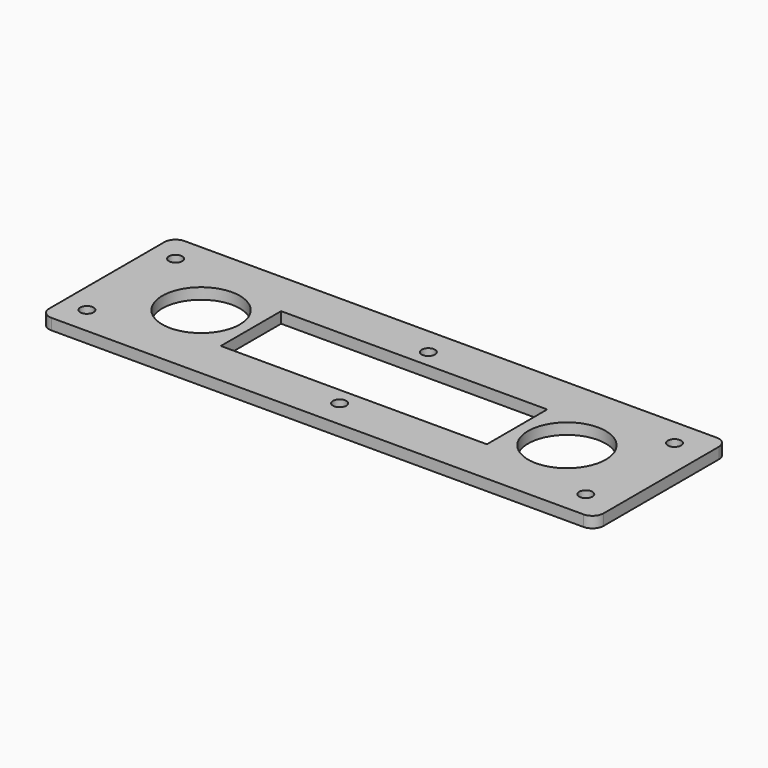
from build123d import *

# Parameters (mm, degrees)
F0_R     = 6
F0_R_2   = 35
F1_DEPTH = 10
F2_W     = 240
F2_H     = 68
F3_DEPTH = 25


with BuildPart() as f1:
    # F0 (on Top) → F1 (new body)
    with BuildSketch(Plane.XY):
        with BuildLine():
            ThreePointArc((0, 10), (2.928932, 2.928932), (10, 0))
            Line((10, 0), (65, 0))
            Line((65, 0), (105, 0))
            Line((105, 0), (230, 0))
            Line((230, 0), (270, 0))
            Line((270, 0), (395, 0))
            Line((395, 0), (435, 0))
            Line((435, 0), (490, 0))
            ThreePointArc((490, 0), (497.071068, 2.928932), (500, 10))
            Line((500, 10), (500, 140))
            ThreePointArc((500, 140), (497.071068, 147.071068), (490, 150))
            Line((490, 150), (435, 150))
            Line((435, 150), (395, 150))
            Line((395, 150), (270, 150))
            Line((270, 150), (230, 150))
            Line((230, 150), (105, 150))
            Line((105, 150), (65, 150))
            Line((65, 150), (10, 150))
            ThreePointArc((10, 150), (2.928932, 147.071068), (0, 140))
            Line((0, 140), (0, 10))
        make_face()
        with Locations((22, 25)):
            Circle(F0_R, mode=Mode.SUBTRACT)
        with Locations((250, 25)):
            Circle(F0_R, mode=Mode.SUBTRACT)
        with Locations((472, 25)):
            Circle(F0_R, mode=Mode.SUBTRACT)
        with Locations((85, 75)):
            Circle(F0_R_2, mode=Mode.SUBTRACT)
        with Locations((22, 125)):
            Circle(F0_R, mode=Mode.SUBTRACT)
        with Locations((415, 75)):
            Circle(F0_R_2, mode=Mode.SUBTRACT)
        with Locations((250, 125)):
            Circle(F0_R, mode=Mode.SUBTRACT)
        with Locations((472, 125)):
            Circle(F0_R, mode=Mode.SUBTRACT)
    extrude(amount=F1_DEPTH)

    # F2 (on face) → F3 (cut)
    with BuildSketch(Plane.XY.offset(10)):
        with Locations((250, 75)):
            Rectangle(F2_W, F2_H)
    extrude(amount=-F3_DEPTH, mode=Mode.SUBTRACT)


solid = f1.part
